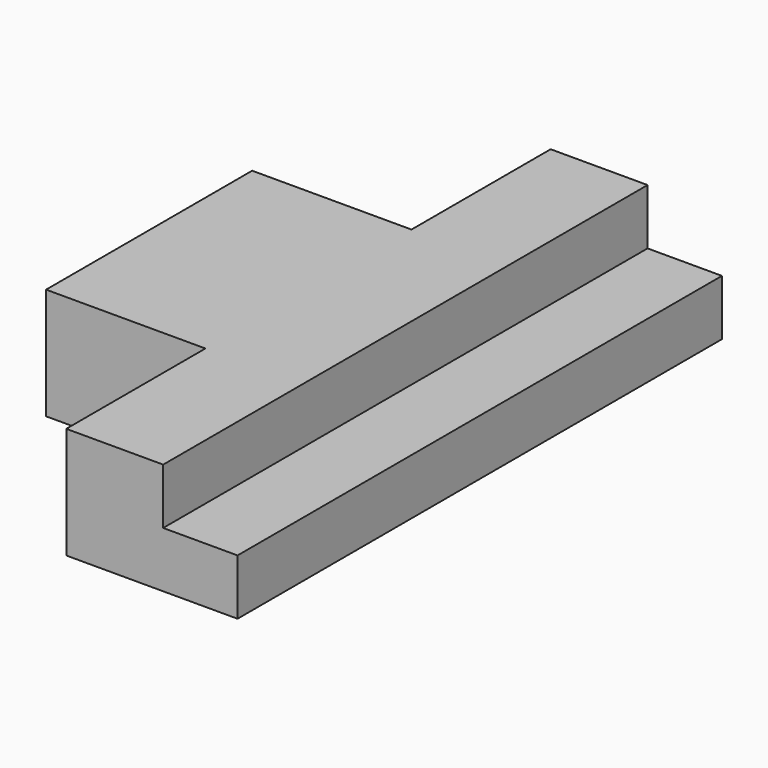
from build123d import *

# Parameters (mm, degrees)
F1_DEPTH = 1140
F2_W     = 600
F2_H     = 420
F3_DEPTH = 655
F4_W     = 600
F4_H     = 420
F5_DEPTH = 655


with BuildPart() as f1:
    # F0 (on Front) → F1 (new body, symmetric)
    with BuildSketch(Plane.XZ):
        Polygon((965, 0), (0, 0), (0, -420), (1245, -420), (1245, -210), (965, -210), align=None)
    extrude(amount=F1_DEPTH, both=True)

    # F2 (on face) → F3 (cut)
    with BuildSketch(Plane.XZ.offset(1140)):
        with Locations((300, -210)):
            Rectangle(F2_W, F2_H)
    extrude(amount=-F3_DEPTH, mode=Mode.SUBTRACT)

    # F4 (on face) → F5 (cut)
    with BuildSketch(Plane(origin=(0, 1140, 0), x_dir=(-1, 0, 0), z_dir=(0, 1, 0))):
        with Locations((-300, -210)):
            Rectangle(F4_W, F4_H)
    extrude(amount=-F5_DEPTH, mode=Mode.SUBTRACT)


solid = f1.part
